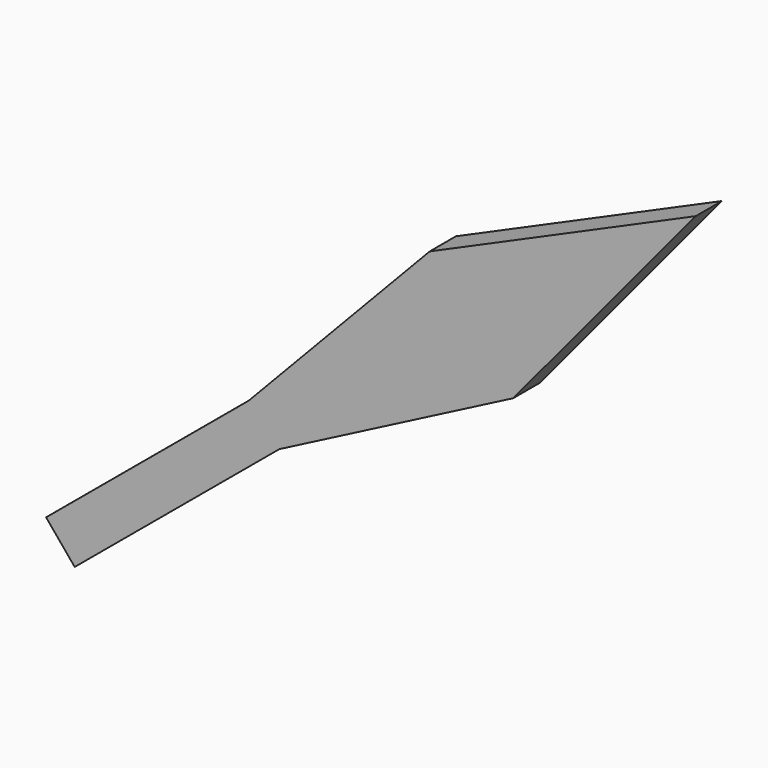
from build123d import *

# Parameters (mm, degrees)
F1_DEPTH = 3.048


with BuildPart() as f1:
    # F0 (on Front) → F1 (new body)
    with BuildSketch(Plane.XZ):
        Polygon((16.836636, 17.700054), (0, 0), (2.849608, -3.044535), (24.60739, 8.202464), (41.58793, 28.636673), align=None)
        Polygon((2.849608, -3.044535), (0, 0), (-18.851278, -15.685413), (-16.188614, -18.885496), align=None)
    extrude(amount=F1_DEPTH)


solid = f1.part
